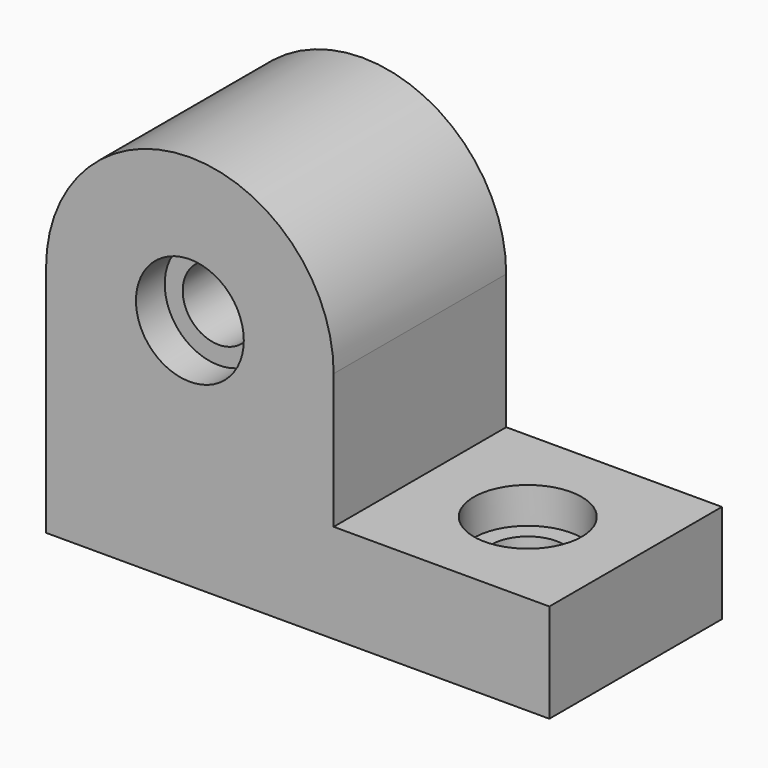
from build123d import *

# Parameters (mm, degrees)
F1_DEPTH = 76.2
F2_R     = 19.05
F3_DEPTH = 12.7
F4_R     = 12.7
F5_DEPTH = 76.201
F6_R     = 19.05
F7_DEPTH = 12.7
F8_R     = 12.7
F9_DEPTH = 34.926


with BuildPart() as f1:
    # F0 (on Front) → F1 (new body)
    with BuildSketch(Plane.XZ):
        with BuildLine():
            Line((0, 82.55), (0, 0))
            Line((0, 0), (177.8, 0))
            Line((177.8, 0), (177.8, 34.925))
            Line((177.8, 34.925), (101.6, 34.925))
            Line((101.6, 34.925), (101.6, 82.55))
            ThreePointArc((101.6, 82.55), (50.8, 133.35), (0, 82.55))
        make_face()
    extrude(amount=F1_DEPTH)

    # F2 (on face) → F3 (cut)
    with BuildSketch(Plane.XZ.offset(76.2)):
        with Locations((50.8, 82.55)):
            Circle(F2_R)
    extrude(amount=-F3_DEPTH, mode=Mode.SUBTRACT)

    # F4 (on face) → F5 (cut, through all)
    with BuildSketch(Plane.XZ.offset(76.2)):
        with Locations((50.8, 82.55)):
            Circle(F4_R)
    extrude(amount=-F5_DEPTH, mode=Mode.SUBTRACT)

    # F6 (on face) → F7 (cut)
    with BuildSketch(Plane.XY.offset(34.925)):
        with Locations((139.7, -38.1)):
            Circle(F6_R)
    extrude(amount=-F7_DEPTH, mode=Mode.SUBTRACT)

    # F8 (on face) → F9 (cut, through all)
    with BuildSketch(Plane.XY.offset(34.925)):
        with Locations((139.7, -38.1)):
            Circle(F8_R)
    extrude(amount=-F9_DEPTH, mode=Mode.SUBTRACT)


solid = f1.part
